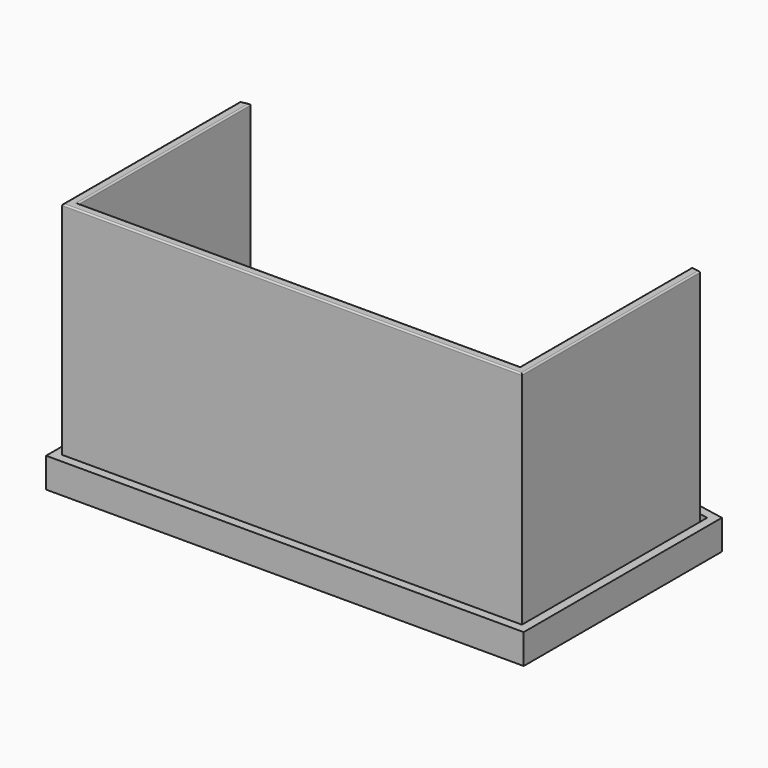
from build123d import *

# Parameters (mm, degrees)
F1_DEPTH = 4
F2_DEPTH = 10
F3_DEPTH = 84
F4_R     = 0.5


with BuildPart() as f1:
    # F0 (on Top) → F1 (new body)
    with BuildSketch(Plane.XY):
        Polygon((71, -40), (71, 26.6875), (0, 40), (-71, 26.6875), (-71, -40), align=None)
        Polygon((77, -46), (77, 25.5625), (74, 26.125), (74, -43), (-74, -43), (-74, 26.125), (-77, 25.5625), (-77, -46), align=None)
        Polygon((0, 43), (71, 29.6875), (71, 32.6875), (0, 46), (-71, 32.6875), (-71, 29.6875), align=None)
        Polygon((-80, -49), (80, -49), (80, 25), (77, 25.5625), (77, -46), (-77, -46), (-77, 25.5625), (-80, 25), align=None)
        Polygon((74, -43), (74, 26.125), (71, 26.6875), (71, -40), (-71, -40), (-71, 26.6875), (-74, 26.125), (-74, -43), align=None)
        Polygon((-80, 31), (-80, 28), (-77, 28.5625), (-77, 31.5625), align=None)
        Polygon((-80, 34), (-80, 31), (-77, 31.5625), (-77, 34.5625), align=None)
        Polygon((-80, 28), (-80, 25), (-77, 25.5625), (-77, 28.5625), align=None)
        Polygon((-77, 34.5625), (-77, 31.5625), (-74, 32.125), (-74, 35.125), align=None)
        Polygon((-77, 31.5625), (-77, 28.5625), (-74, 29.125), (-74, 32.125), align=None)
        Polygon((-77, 28.5625), (-77, 25.5625), (-74, 26.125), (-74, 29.125), align=None)
        Polygon((-74, 32.125), (-74, 29.125), (-71, 29.6875), (-71, 32.6875), align=None)
        Polygon((-74, 29.125), (-74, 26.125), (-71, 26.6875), (-71, 29.6875), align=None)
        Polygon((-74, 35.125), (-74, 32.125), (-71, 32.6875), (-71, 35.6875), align=None)
        Polygon((0, 46), (71, 32.6875), (71, 35.6875), (0, 49), (-71, 35.6875), (-71, 32.6875), align=None)
        Polygon((0, 40), (71, 26.6875), (71, 29.6875), (0, 43), (-71, 29.6875), (-71, 26.6875), align=None)
        Polygon((71, 32.6875), (74, 32.125), (74, 35.125), (71, 35.6875), align=None)
        Polygon((74, 32.125), (77, 31.5625), (77, 34.5625), (74, 35.125), align=None)
        Polygon((77, 31.5625), (80, 31), (80, 34), (77, 34.5625), align=None)
        Polygon((77, 28.5625), (80, 28), (80, 31), (77, 31.5625), align=None)
        Polygon((77, 25.5625), (80, 25), (80, 28), (77, 28.5625), align=None)
        Polygon((74, 26.125), (77, 25.5625), (77, 28.5625), (74, 29.125), align=None)
        Polygon((71, 26.6875), (74, 26.125), (74, 29.125), (71, 29.6875), align=None)
        Polygon((71, 29.6875), (74, 29.125), (74, 32.125), (71, 32.6875), align=None)
        Polygon((74, 29.125), (77, 28.5625), (77, 31.5625), (74, 32.125), align=None)
    extrude(amount=F1_DEPTH)

    # F0 (on Top) → F2 (join)
    with BuildSketch(Plane.XY):
        Polygon((77, 31.5625), (80, 31), (80, 34), (77, 34.5625), align=None)
        Polygon((74, 32.125), (77, 31.5625), (77, 34.5625), (74, 35.125), align=None)
        Polygon((71, 32.6875), (74, 32.125), (74, 35.125), (71, 35.6875), align=None)
        Polygon((0, 46), (71, 32.6875), (71, 35.6875), (0, 49), (-71, 35.6875), (-71, 32.6875), align=None)
        Polygon((-74, 35.125), (-74, 32.125), (-71, 32.6875), (-71, 35.6875), align=None)
        Polygon((-77, 34.5625), (-77, 31.5625), (-74, 32.125), (-74, 35.125), align=None)
        Polygon((-80, 34), (-80, 31), (-77, 31.5625), (-77, 34.5625), align=None)
        Polygon((-80, 28), (-80, 25), (-77, 25.5625), (-77, 28.5625), align=None)
        Polygon((-77, 28.5625), (-77, 25.5625), (-74, 26.125), (-74, 29.125), align=None)
        Polygon((-74, 29.125), (-74, 26.125), (-71, 26.6875), (-71, 29.6875), align=None)
        Polygon((0, 40), (71, 26.6875), (71, 29.6875), (0, 43), (-71, 29.6875), (-71, 26.6875), align=None)
        Polygon((77, 25.5625), (80, 25), (80, 28), (77, 28.5625), align=None)
        Polygon((74, 26.125), (77, 25.5625), (77, 28.5625), (74, 29.125), align=None)
        Polygon((71, 26.6875), (74, 26.125), (74, 29.125), (71, 29.6875), align=None)
        Polygon((-80, -49), (80, -49), (80, 25), (77, 25.5625), (77, -46), (-77, -46), (-77, 25.5625), (-80, 25), align=None)
        Polygon((74, -43), (74, 26.125), (71, 26.6875), (71, -40), (-71, -40), (-71, 26.6875), (-74, 26.125), (-74, -43), align=None)
        Polygon((-80, 31), (-80, 28), (-77, 28.5625), (-77, 31.5625), align=None)
        Polygon((77, 28.5625), (80, 28), (80, 31), (77, 31.5625), align=None)
    extrude(amount=F2_DEPTH)

    # F0 (on Top) → F3 (join)
    with BuildSketch(Plane.XY):
        Polygon((77, -46), (77, 25.5625), (74, 26.125), (74, -43), (-74, -43), (-74, 26.125), (-77, 25.5625), (-77, -46), align=None)
        Polygon((-77, 28.5625), (-77, 25.5625), (-74, 26.125), (-74, 29.125), align=None)
        Polygon((74, 26.125), (77, 25.5625), (77, 28.5625), (74, 29.125), align=None)
    extrude(amount=F3_DEPTH)

    # F4
    f4_edges = [f1.edges().sort_by_distance(p)[0] for p in [
        (77, -8.71875, 84),
        (75.5, 28.84375, 84),
        (74, -6.9375, 84),
        (0, -43, 84),
        (-74, -6.9375, 84),
        (-75.5, 28.84375, 84),
        (-77, -8.71875, 84),
        (0, -46, 84),
    ]]
    fillet(f4_edges, radius=F4_R)


solid = f1.part
